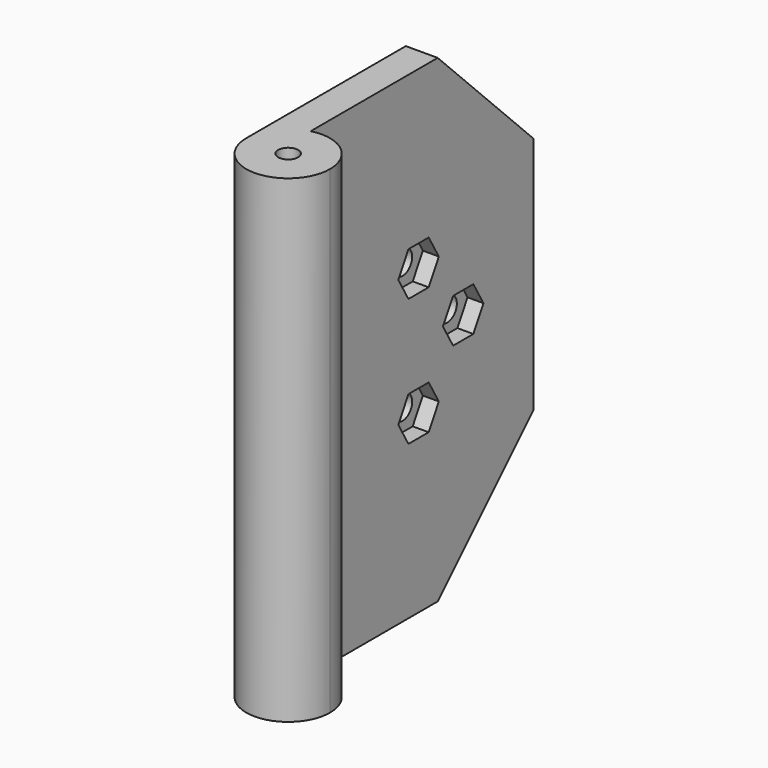
from build123d import *

# Parameters (mm, degrees)
F1_DEPTH = 30
F2_R     = 1.5
F3_DEPTH = 4.001
F4_SIZE  = 15
F5_DEPTH = 2


with BuildPart() as f1:
    # F0 (on Top) → F1 (new body, symmetric)
    with BuildSketch(Plane.XY):
        with BuildLine():
            ThreePointArc((-5.25, 0), (-4.130678, 3.24037), (-1.25, 5.09902))
            Line((-1.25, 5.09902), (-1.25, 40))
            Line((-1.25, 40), (-5.25, 40))
            Line((-5.25, 40), (-5.25, 0))
        make_face()
        with BuildLine():
            ThreePointArc((5.25, 0), (3.24037, 4.130678), (-1.25, 5.09902))
            ThreePointArc((-1.25, 5.09902), (-4.130678, 3.24037), (-5.25, 0))
            ThreePointArc((-5.25, 0), (0, -5.25), (5.25, 0))
        make_face()
        with BuildLine():
            ThreePointArc((-1.25, 0), (0, 1.25), (1.25, 0))
            ThreePointArc((1.25, 0), (0, -1.25), (-1.25, 0))
        make_face(mode=Mode.SUBTRACT)
    extrude(amount=F1_DEPTH, both=True)

    # F2 (on face) → F3 (cut, through all)
    with BuildSketch(Plane.YZ.offset(-1.25)):
        with Locations((22, 8)):
            Circle(F2_R)
        with Locations((29, 0)):
            Circle(F2_R)
        with Locations((22, -8)):
            Circle(F2_R)
    extrude(amount=-F3_DEPTH, mode=Mode.SUBTRACT)

    # F4
    f4_edges = [f1.edges().sort_by_distance(p)[0] for p in [
        (-3.25, 40, 30),
        (-3.25, 40, -30),
    ]]
    chamfer(f4_edges, length=F4_SIZE)

    # F2 (on face) → F5 (cut)
    with BuildSketch(Plane.YZ.offset(-1.25)):
        Polygon((23.587713, 10.75), (20.412287, 10.75), (18.824574, 8), (20.412287, 5.25), (23.587713, 5.25), (25.175426, 8), align=None)
        with Locations((22, 8)):
            Circle(F2_R, mode=Mode.SUBTRACT)
        Polygon((30.587713, 2.75), (27.412287, 2.75), (25.824574, 0), (27.412287, -2.75), (30.587713, -2.75), (32.175426, 0), align=None)
        with Locations((29, 0)):
            Circle(F2_R, mode=Mode.SUBTRACT)
        Polygon((23.587713, -5.25), (20.412287, -5.25), (18.824574, -8), (20.412287, -10.75), (23.587713, -10.75), (25.175426, -8), align=None)
        with Locations((22, -8)):
            Circle(F2_R, mode=Mode.SUBTRACT)
    extrude(amount=-F5_DEPTH, mode=Mode.SUBTRACT)


solid = f1.part
